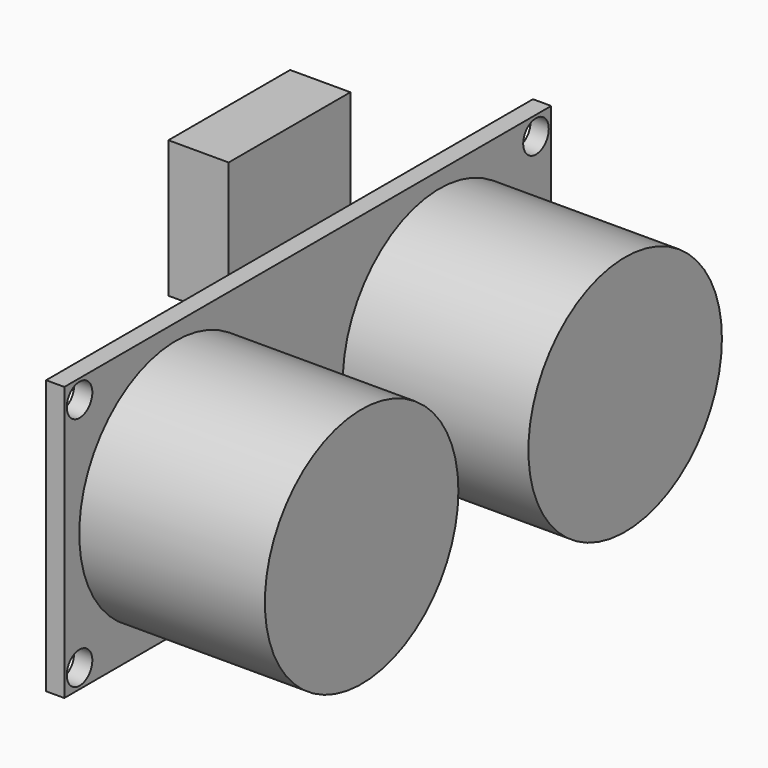
from build123d import *

# Parameters (mm, degrees)
SKETCH031_W             = 40
SKETCH031_H             = 18
SKETCH031_R             = 1.05
PAD019_DEPTH            = 1.2
SKETCH032_R             = 7.95
PAD020_DEPTH            = 12.2
SKETCH033_W             = 10
SKETCH033_H             = 9
PAD021_DEPTH            = 3.96
BODY005_PLACEMENT_ANGLE = 90


with BuildPart() as part:
    # Sketch031 → Pad019 (new body)
    with BuildSketch(Plane.XZ):
        Rectangle(SKETCH031_W, SKETCH031_H)
        with Locations((-18.75, 7.75)):
            Circle(SKETCH031_R, mode=Mode.SUBTRACT)
        with Locations((-18.75, -7.75)):
            Circle(SKETCH031_R, mode=Mode.SUBTRACT)
        with Locations((18.75, -7.75)):
            Circle(SKETCH031_R, mode=Mode.SUBTRACT)
        with Locations((18.75, 7.75)):
            Circle(SKETCH031_R, mode=Mode.SUBTRACT)
    extrude(amount=PAD019_DEPTH)

    # Sketch032 (on Face10 of Pad019) → Pad020 (join)
    with BuildSketch(Plane.XZ.offset(1.2)):
        with Locations((-10.825, 0)):
            Circle(SKETCH032_R)
        with Locations((10.825, 0)):
            Circle(SKETCH032_R)
    extrude(amount=PAD020_DEPTH)

    # Sketch033 (on Face4 of Pad020) → Pad021 (join)
    with BuildSketch(Plane(origin=(0, 0, 0), x_dir=(1, 0, 0), z_dir=(0, 1, 0))):
        with Locations((0, -11)):
            Rectangle(SKETCH033_W, SKETCH033_H)
    extrude(amount=PAD021_DEPTH)


with BuildPart() as part_1:
    # Body005 placement: moved
    add(part.part.moved(Location((43, 0, 53))).rotate(Axis((43, 0, 53), (0, 0, 1)), BODY005_PLACEMENT_ANGLE))


solid = part_1.part
